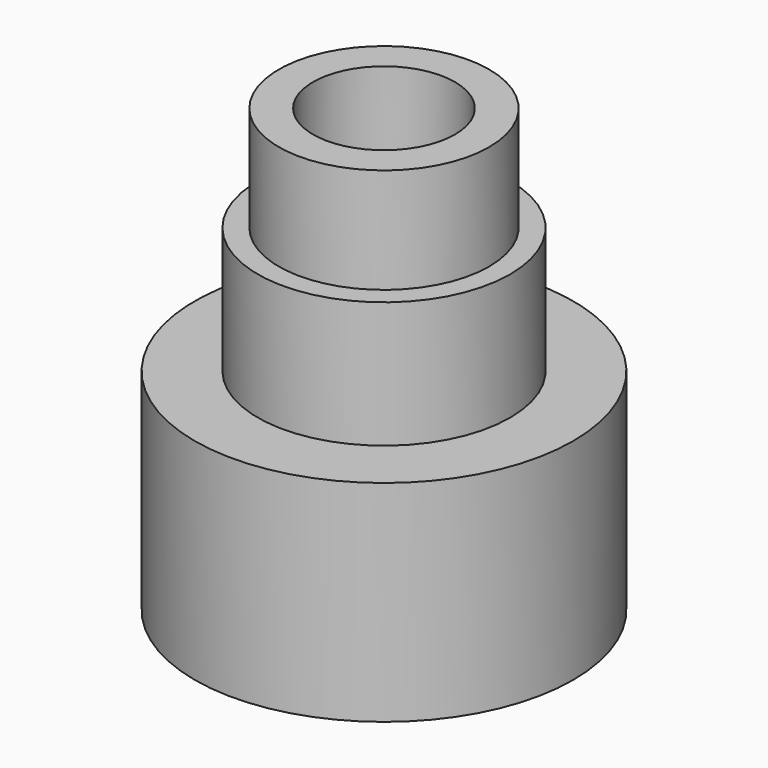
from build123d import *

# Parameters (mm, degrees)
F0_R     = 10
F0_R_2   = 6.75
F1_DEPTH = 42
F0_R_3   = 12
F2_DEPTH = 32
F0_R_4   = 18
F3_DEPTH = 20


with BuildPart() as f1:
    # F0 (on Top) → F1 (new body)
    with BuildSketch(Plane.XY):
        Circle(F0_R)
        Circle(F0_R_2, mode=Mode.SUBTRACT)
    extrude(amount=F1_DEPTH)

    # F0 (on Top) → F2 (join)
    with BuildSketch(Plane.XY):
        Circle(F0_R_3)
        Circle(F0_R, mode=Mode.SUBTRACT)
        Circle(F0_R_2)
    extrude(amount=F2_DEPTH)

    # F0 (on Top) → F3 (join)
    with BuildSketch(Plane.XY):
        Circle(F0_R_4)
        Circle(F0_R_3, mode=Mode.SUBTRACT)
    extrude(amount=F3_DEPTH)


solid = f1.part
